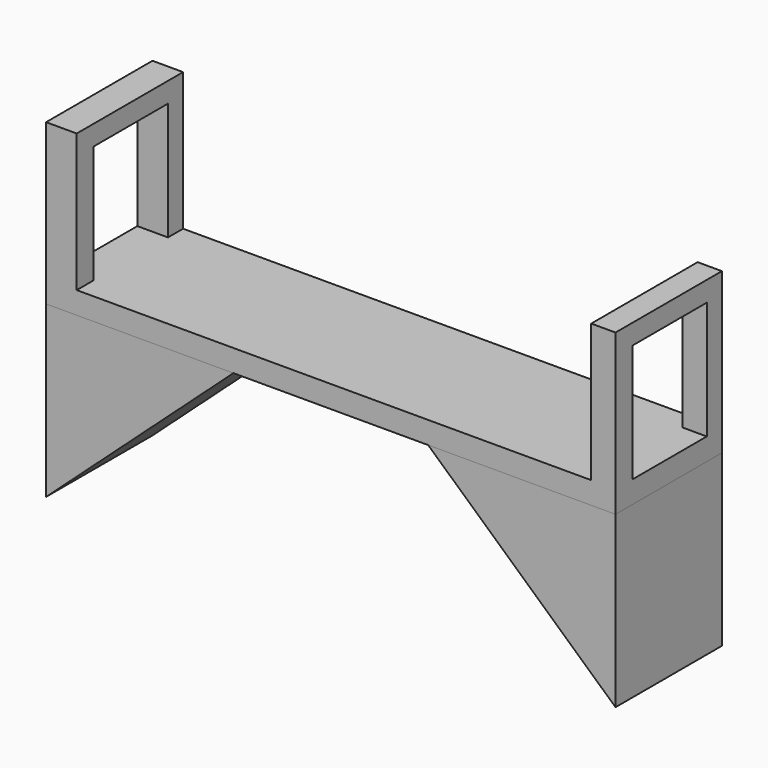
from build123d import *

# Parameters (mm, degrees)
F0_W     = 5.7597719133
F0_H     = 25.9189791977
F0_W_2   = 4.5680999756
F1_DEPTH = 25
F2_W     = 17.5000019372
F2_H     = 22.148437798
F3_DEPTH = 107.0533411036
F5_DEPTH = 25
F6_DEPTH = 25


with BuildPart() as f1:
    # F0 (on Front) → F1 (new body)
    with BuildSketch(Plane.XZ):
        with Locations((-59.6831683069, 12.9594895989)):
            Rectangle(F0_W, F0_H)
        Polygon((-56.8032823503, 0), (-62.5630542636, 0), (-62.5630542636, -4.1602337733), (44.48928684, -4.1602337733), (44.48928684, 0), (39.9211868644, 0), align=None)
        with Locations((42.2052368522, 12.9594895989)):
            Rectangle(F0_W_2, F0_H)
    extrude(amount=F1_DEPTH)

    # F2 (on face) → F3 (cut, through all)
    with BuildSketch(Plane.YZ.offset(44.48928684)):
        with Locations((-12.3046878725, 11.074218899)):
            Rectangle(F2_W, F2_H)
    extrude(amount=-F3_DEPTH, mode=Mode.SUBTRACT)


with BuildPart() as f5:
    # F4 (on face) → F5 (new body)
    with BuildSketch(Plane.XZ.offset(25)):
        Polygon((44.48928684, -4.1602337733), (9.26928684, -4.1602337733), (44.48928684, -36.0937528312), align=None)
    extrude(amount=-F5_DEPTH)


with BuildPart() as f6:
    # F4 (on face) → F6 (new body)
    with BuildSketch(Plane.XZ.offset(25)):
        Polygon((-27.3437518626, -4.1602337733), (-62.5630542636, -4.1602337733), (-62.5630542636, -36.0937528312), align=None)
    extrude(amount=-F6_DEPTH)


solid = Compound([f1.part, f5.part, f6.part])
